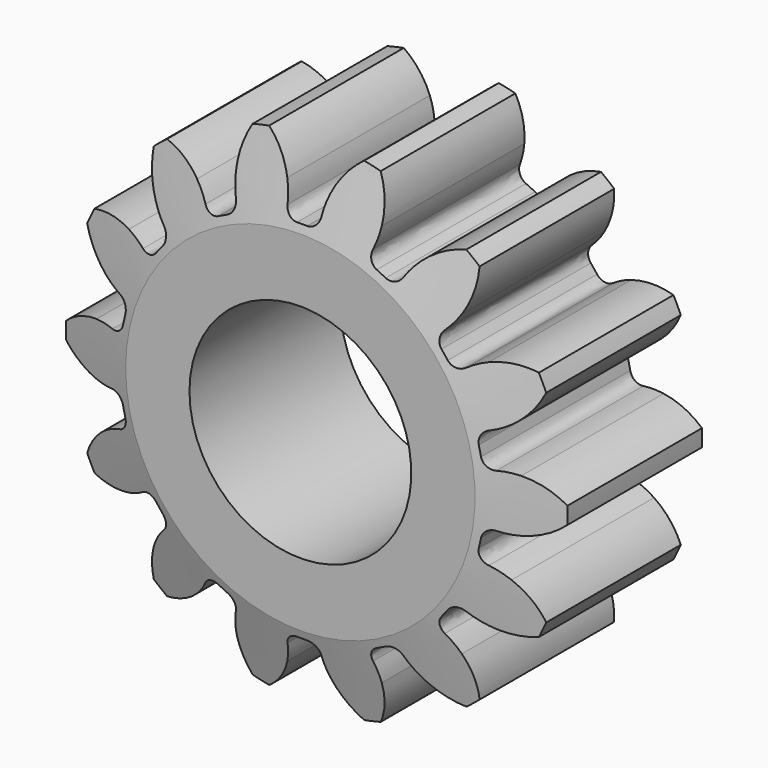
from build123d import *

# Parameters (mm, degrees)
F5_R     = 14.356
F6_DEPTH = 10.8
F7_DEPTH = 10.8
F8_R     = 0.665
F9_COUNT = 14
F10_W    = 6.35
F10_H    = 10.8


with BuildPart() as f6:
    # F5 (on Front) → F6 (new body)
    with BuildSketch(Plane.XZ):
        Circle(F5_R)
    extrude(amount=F6_DEPTH)

    # F9: F7 ×14 about axis
    f9_axis = Axis((0, 0, 0), (0, 1, 0))


with BuildPart() as f7:
    # F4 (on Front) → F7 (new body)
    with BuildSketch(Plane.XZ):
        with BuildLine():
            ThreePointArc((-2.720229432, 14.0959245116), (-1.8354890415, 13.2516527735), (-1.2322306926, 12.1878672261))
            ThreePointArc((-1.2322306926, 12.1878672261), (0, 12.25), (1.2322306926, 12.1878672261))
            ThreePointArc((1.2322306926, 12.1878672261), (1.8354890415, 13.2516527735), (2.720229432, 14.0959245116))
            ThreePointArc((2.720229432, 14.0959245116), (0, 14.356), (-2.720229432, 14.0959245116))
        make_face()
        with BuildLine():
            ThreePointArc((-1.2322306926, 12.1878672261), (-0.9980757468, 11.3105789186), (-0.9584255514, 10.4034454251))
            ThreePointArc((-0.9584255514, 10.4034454251), (0, 10.4475), (0.9584255514, 10.4034454251))
            ThreePointArc((0.9584255514, 10.4034454251), (0.9980757468, 11.3105789186), (1.2322306926, 12.1878672261))
            ThreePointArc((1.2322306926, 12.1878672261), (0, 12.25), (-1.2322306926, 12.1878672261))
        make_face()
    extrude(amount=F7_DEPTH)

    # F8
    f8_edges = [f7.edges().sort_by_distance(p)[0] for p in [
        (0.958426, -5.4, 10.403445),
        (-0.958426, -5.4, 10.403445),
    ]]
    fillet(f8_edges, radius=F8_R)


with BuildPart() as f6_1:
    add(f6.part)
    for i in range(1, F9_COUNT):
        add(f7.part.rotate(f9_axis, i * 360 / F9_COUNT), mode=Mode.SUBTRACT)

    # F9#seed: cut F7
    add(f7.part, mode=Mode.SUBTRACT)

    # F10 (on Top) → F11 (revolve, cut)
    with BuildSketch(Plane.XY):
        Polygon((-14.356, -10.8), (-10, -10.8), (-14.356, -9.6328133178), align=None)
        with Locations((-3.175, -5.4)):
            Rectangle(F10_W, F10_H)
    revolve(axis=Axis((0, -13.1241390482, 0), (0, -1, 0)), mode=Mode.SUBTRACT)


solid = f6_1.part
